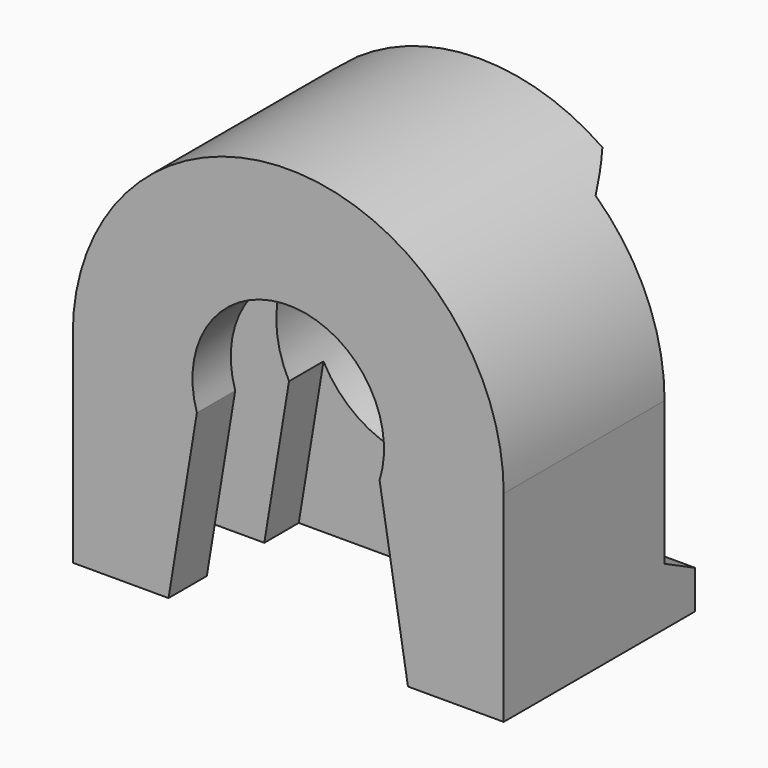
from build123d import *

# Parameters (mm, degrees)
F1_DEPTH  = 12.7
F4_DEPTH  = 3.81
F6_DEPTH  = 8.636
F8_DEPTH  = 25.4
F9_R      = 5.715
F10_DEPTH = 4.318


with BuildPart() as f1:
    # F0 (on Front) → F1 (new body)
    with BuildSketch(Plane.XZ):
        with BuildLine():
            Line((-11.43, -5.334), (11.43, -5.334))
            Line((11.43, -5.334), (11.43, 5.334))
            ThreePointArc((11.43, 5.334), (0, 16.764), (-11.43, 5.334))
            Line((-11.43, 5.334), (-11.43, -5.334))
        make_face()
    extrude(amount=F1_DEPTH)

    # F3 (on offset) → F4 (cut)
    with BuildSketch(Plane.XZ.offset(6.35)):
        with BuildLine():
            Line((-9.144, -5.334), (9.144, -5.334))
            Line((9.144, -5.334), (9.144, 5.334))
            ThreePointArc((9.144, 5.334), (0, 14.478), (-9.144, 5.334))
            Line((-9.144, 5.334), (-9.144, -5.334))
        make_face()
    extrude(amount=F4_DEPTH, mode=Mode.SUBTRACT)

    # F5 (on face) → F6 (cut)
    with BuildSketch(Plane.XZ.offset(12.7)):
        with BuildLine():
            Line((6.35, -5.334), (4.846011, 3.81))
            ThreePointArc((4.846011, 3.81), (0, 10.414), (-4.846011, 3.81))
            Line((-4.846011, 3.81), (-6.35, -5.334))
            Line((-6.35, -5.334), (6.35, -5.334))
        make_face()
    extrude(amount=-F6_DEPTH, mode=Mode.SUBTRACT)

    # F7 (on face) → F8 (cut)
    with BuildSketch(Plane.YZ.offset(11.43)):
        Polygon((-2.032, -2.286), (0, -3.302), (0, 14.732), (-2.032, 13.716), align=None)
    extrude(amount=-F8_DEPTH, mode=Mode.SUBTRACT)

    # F9 (on face) → F10 (cut, through all)
    with BuildSketch(Plane(origin=(0, -2.032, 0), x_dir=(-1, 0, 0), z_dir=(0, 1, 0))):
        with Locations((0, 5.334)):
            Circle(F9_R)
    extrude(amount=-F10_DEPTH, mode=Mode.SUBTRACT)


solid = f1.part
